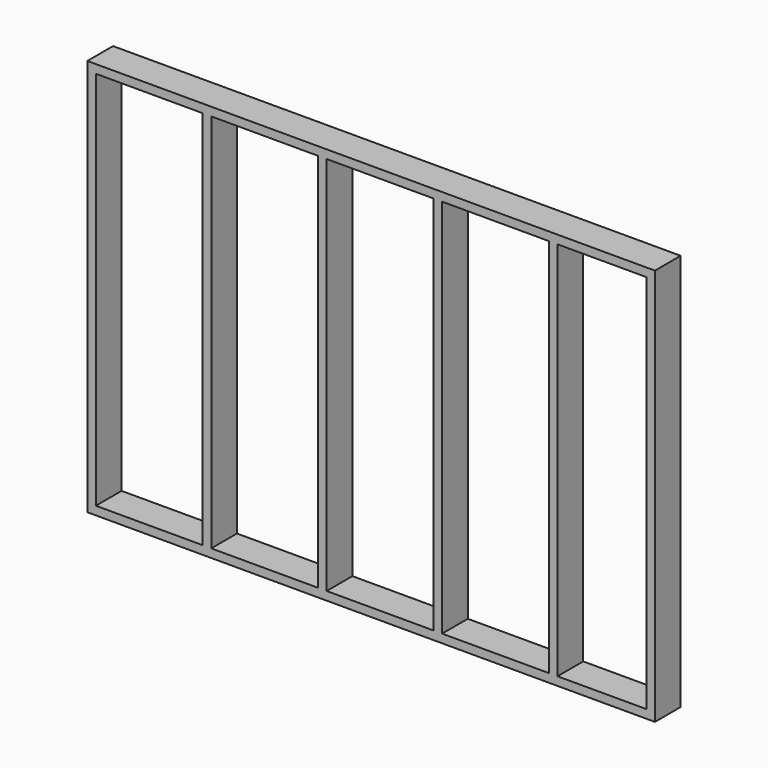
from build123d import *

# Parameters (mm, degrees)
F0_W     = 3000
F0_H     = 2100
F0_W_2   = 565
F0_H_2   = 2010
F0_W_3   = 470
F1_DEPTH = 170


with BuildPart() as f1:
    # F0 (on Front) → F1 (new body)
    with BuildSketch(Plane.XZ):
        with Locations((-1500, 1050)):
            Rectangle(F0_W, F0_H)
        with Locations((-2672.5, 1050)):
            Rectangle(F0_W_2, F0_H_2, mode=Mode.SUBTRACT)
        with Locations((-2062.5, 1050)):
            Rectangle(F0_W_2, F0_H_2, mode=Mode.SUBTRACT)
        with Locations((-1452.5, 1050)):
            Rectangle(F0_W_2, F0_H_2, mode=Mode.SUBTRACT)
        with Locations((-842.5, 1050)):
            Rectangle(F0_W_2, F0_H_2, mode=Mode.SUBTRACT)
        with Locations((-280, 1050)):
            Rectangle(F0_W_3, F0_H_2, mode=Mode.SUBTRACT)
    extrude(amount=F1_DEPTH)


solid = f1.part
